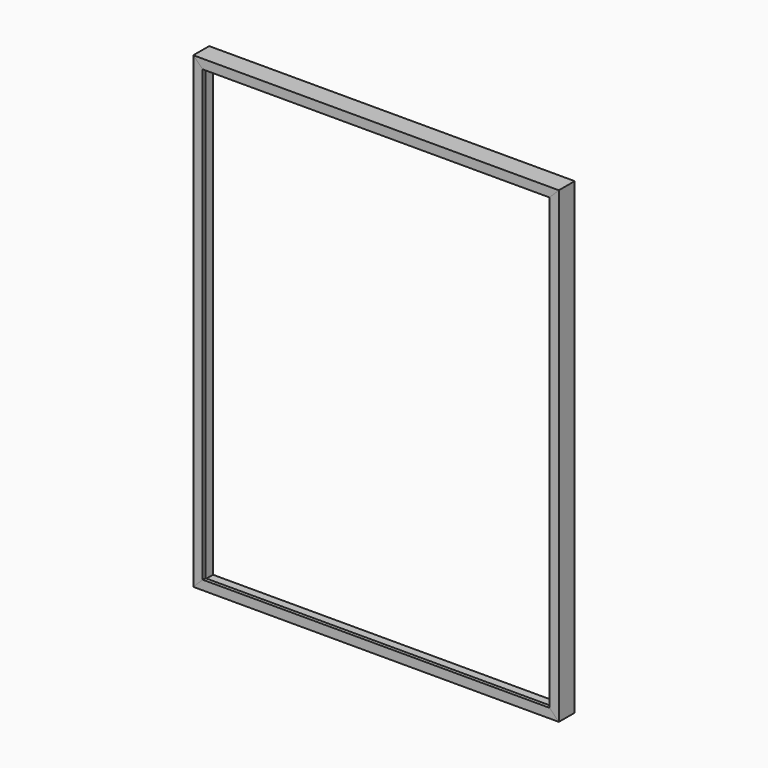
from build123d import *

# Parameters (mm, degrees)
F2_DEPTH = 36.83
F4_DEPTH = 36.83
F5_W     = 664.972
F5_H     = 855.472
F6_DEPTH = 30.48


with BuildPart() as f2:
    # F1 (on face) → F2 (new body)
    with BuildSketch(Plane.XZ):
        Polygon((-339.725, 434.975), (-339.725, -434.975), (-322.326, -417.576), (-322.326, 417.576), align=None)
        Polygon((322.326, -417.576), (339.725, -434.975), (339.725, 434.975), (322.326, 417.576), align=None)
    extrude(amount=F2_DEPTH)


with BuildPart() as f4:
    # F3 (on Front) → F4 (new body, through all)
    with BuildSketch(Plane.XZ):
        Polygon((339.725, 434.975), (-339.725, 434.975), (-322.326, 417.576), (322.326, 417.576), align=None)
        Polygon((-322.326, -417.576), (-339.725, -434.975), (339.725, -434.975), (322.326, -417.576), align=None)
    extrude(amount=F4_DEPTH)


with BuildPart() as f6_tool:
    # F5 (on face) → F6 (new body)
    with BuildSketch(Plane.XZ):
        Rectangle(F5_W, F5_H)
    extrude(amount=F6_DEPTH)


with BuildPart() as f2_1:
    add(f2.part)

    # F6: cut by f6_tool
    add(f6_tool.part, mode=Mode.SUBTRACT)


with BuildPart() as f4_1:
    add(f4.part)

    # F6: cut by f6_tool
    add(f6_tool.part, mode=Mode.SUBTRACT)


solid = Compound([f2_1.part, f4_1.part])
